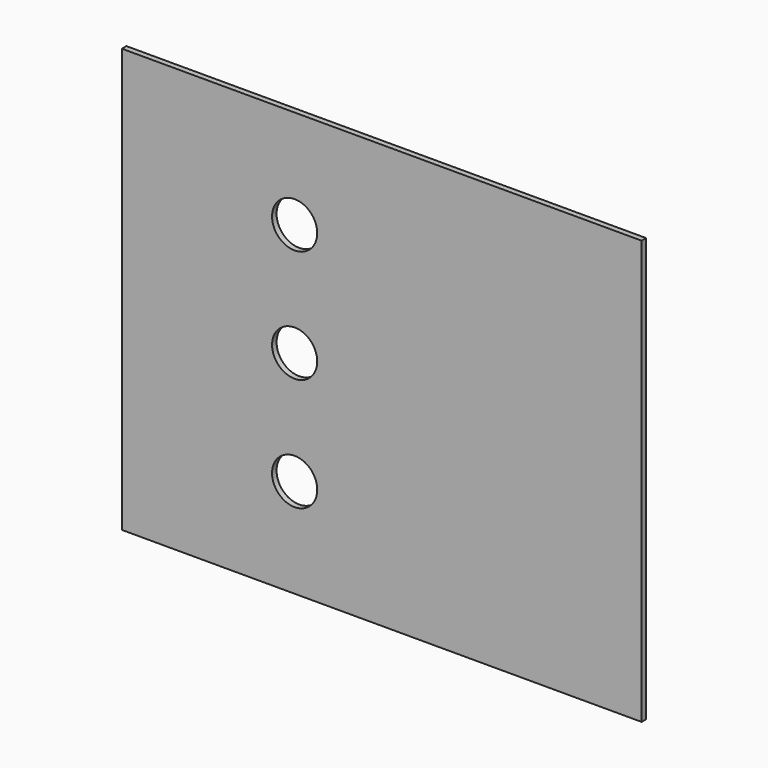
from build123d import *

# Parameters (mm, degrees)
F0_W     = 184
F0_H     = 150
F0_R     = 8
F1_DEPTH = 2


with BuildPart() as f1:
    # F0 (on Front) → F1 (new body)
    with BuildSketch(Plane.XZ):
        Rectangle(F0_W, F0_H)
        with Locations((-30.839026, -40)):
            Circle(F0_R, mode=Mode.SUBTRACT)
        with Locations((-30.839026, 0)):
            Circle(F0_R, mode=Mode.SUBTRACT)
        with Locations((-30.839026, 40)):
            Circle(F0_R, mode=Mode.SUBTRACT)
    extrude(amount=F1_DEPTH)


solid = f1.part
